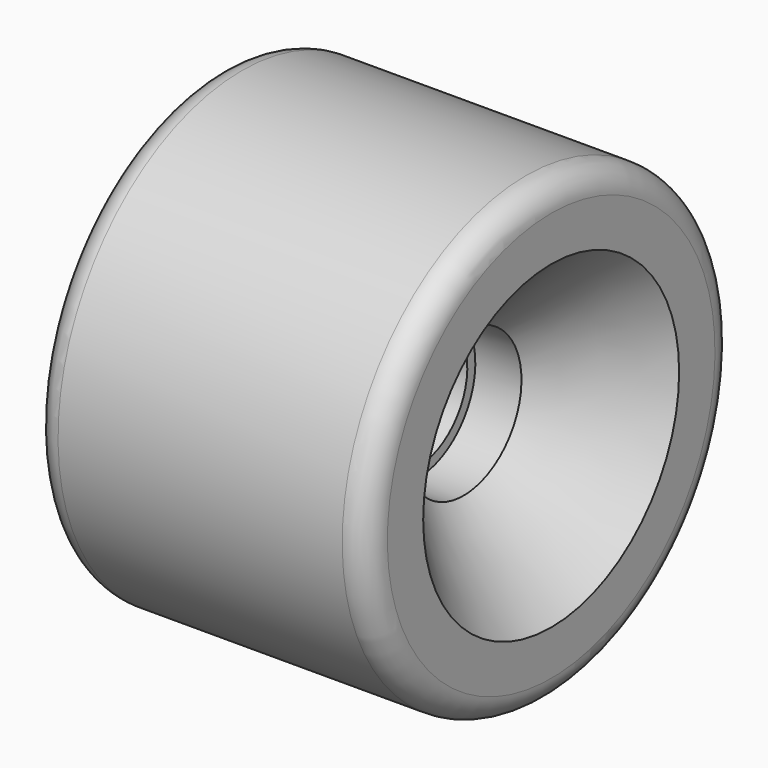
from build123d import *

# Parameters (mm, degrees)
F3_W = 10.16
F3_H = 1.0922


with BuildPart() as f1:
    # F0 (on Front) → F1 (revolve)
    with BuildSketch(Plane.XZ):
        with BuildLine():
            Line((21.59, 34.925), (0, 34.925))
            Line((0, 34.925), (0, 9.4742))
            Line((0, 9.4742), (5.08, 9.4742))
            Line((5.08, 9.4742), (5.08, 10.9982))
            Line((5.08, 10.9982), (12.0904, 10.9982))
            Line((12.0904, 10.9982), (25.4, 24.3078))
            Line((25.4, 24.3078), (25.4, 31.115))
            ThreePointArc((25.4, 31.115), (24.284077, 33.809077), (21.59, 34.925))
        make_face()
    revolve(axis=Axis((8.604228, 0, 0), (1, 0, 0)))

    # F2: F1 across plane


with BuildPart() as f1_1:
    add(f1.part)
    add(f1.part.mirror(Plane.YZ))


with BuildPart() as f4:
    # F3 (on Front) → F4 (revolve)
    with BuildSketch(Plane.XZ):
        with Locations((0, 4.5339)):
            Rectangle(F3_W, F3_H)
    revolve(axis=Axis((8.604228, 0, 0), (1, 0, 0)))


solid = Compound([f1_1.part, f4.part])
